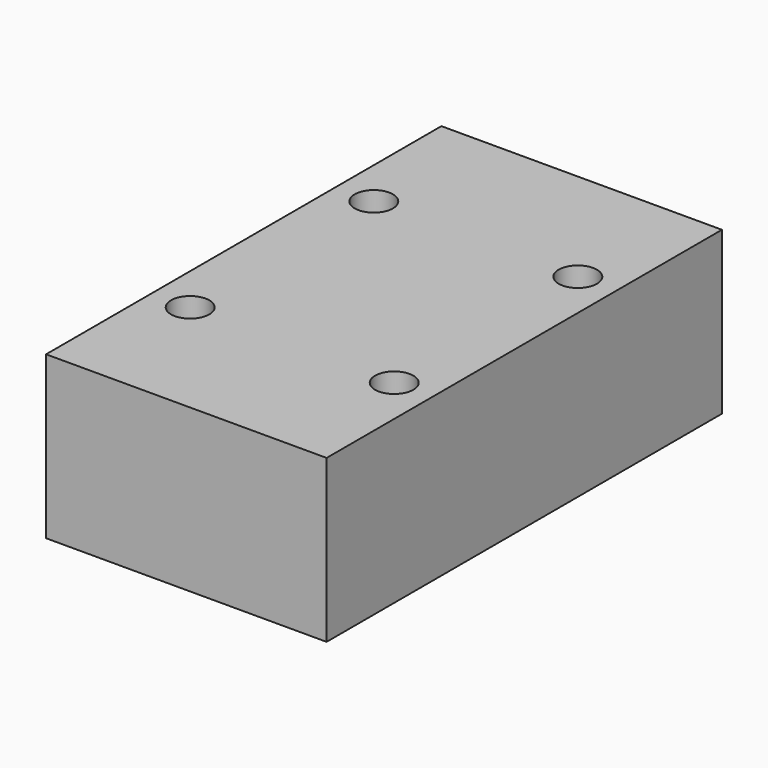
from build123d import *

# Parameters (mm, degrees)
F0_W     = 44
F0_H     = 25.4
F1_DEPTH = 77.5
F2_R     = 3
F3_DEPTH = 25.401


with BuildPart() as f1:
    # F0 (on Front) → F1 (new body)
    with BuildSketch(Plane.XZ):
        Rectangle(F0_W, F0_H)
    extrude(amount=-F1_DEPTH)

    # F2 (on face) → F3 (cut, through all)
    with BuildSketch(Plane.XY.offset(12.7)):
        with Locations((-16, 56.75)):
            Circle(F2_R)
        with Locations((-16, 20.75)):
            Circle(F2_R)
        with Locations((16, 20.75)):
            Circle(F2_R)
        with Locations((16, 56.75)):
            Circle(F2_R)
    extrude(amount=-F3_DEPTH, mode=Mode.SUBTRACT)


solid = f1.part
